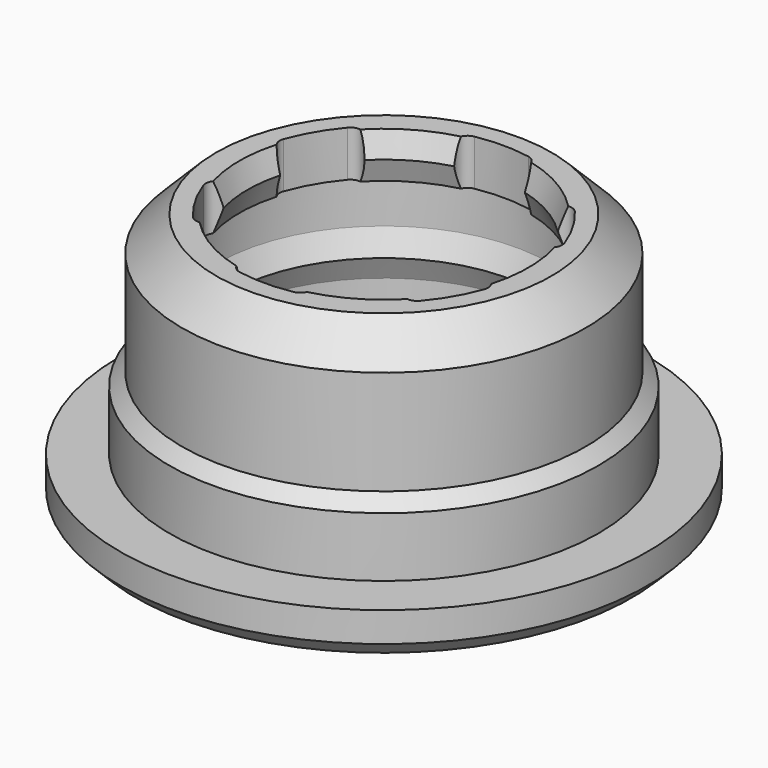
from build123d import *

# Parameters (mm, degrees)
POCKET_DEPTH       = 34.402163
POCKET_DEPTH_BACK  = 40.002163
POLARPATTERN_COUNT = 6


with BuildPart() as part:
    # Sketch → Revolution (revolve)
    with BuildSketch(Plane.XZ):
        Polygon((-3.6, 4.6), (-3.6, 3.5), (-3.38, 3), (-3.6, 2.5), (-3.6, 1), (-3.405, 0.5), (-3.905, 0), (-4.4, 0), (-5.4, 0), (-5.75, 0.35), (-5.75, 1), (-4.675, 1), (-4.675, 2.3), (-4.4, 2.575), (-4.4, 4.85), (-3.65, 5.6), (-3.15, 5.6), (-2.975, 5.1), (-3.15, 4.6), align=None)
    revolve(axis=Axis((0, 0, 0), (0, 0, 1)))

    # Sketch001 → Pocket (cut, two sides)
    with BuildSketch(Plane.XY) as pocket_sk:
        with BuildLine():
            Line((0, 0), (-0.776457, 2.897777))
            ThreePointArc((-0.587735, 3.196415), (-0.747472, 3.08841), (-0.776457, 2.897777))
            ThreePointArc((0.587735, 3.196415), (0, 3.25), (-0.587735, 3.196415))
            ThreePointArc((0.776457, 2.897777), (0.747472, 3.08841), (0.587735, 3.196415))
            Line((0.776457, 2.897777), (0, 0))
        make_face()
    pocket = extrude(amount=-POCKET_DEPTH, mode=Mode.SUBTRACT) + extrude(pocket_sk.sketch, amount=POCKET_DEPTH_BACK, mode=Mode.SUBTRACT)

    # PolarPattern: Pocket ×6 about axis
    polarpattern_axis = Axis((0, 0, 0), (0, 0, 1))
    for i in range(1, POLARPATTERN_COUNT):
        add(pocket.rotate(polarpattern_axis, i * 360 / POLARPATTERN_COUNT), mode=Mode.SUBTRACT)


solid = part.part
